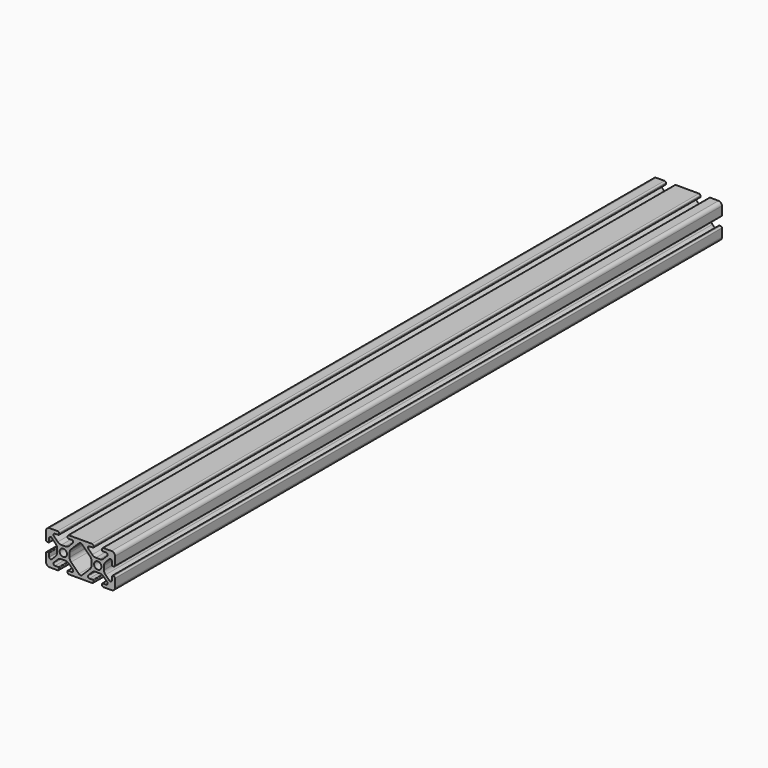
from build123d import *

# Parameters (mm, degrees)
F0_R     = 2.1463
F1_DEPTH = 440


with BuildPart() as f1:
    # F0 (on Front) → F1 (new body)
    with BuildSketch(Plane.XZ):
        with BuildLine():
            Line((-9.75241, 4.759444), (-12.019248, 4.759444))
            ThreePointArc((-12.019248, 4.759444), (-13.166227, 4.987592), (-14.138589, 5.637303))
            Line((-14.138589, 5.637303), (-16.393426, 7.892141))
            ThreePointArc((-16.393426, 7.892141), (-16.575125, 8.805603), (-15.800729, 9.323038))
            Line((-15.800729, 9.323038), (-13.692529, 9.323038))
            ThreePointArc((-13.692529, 9.323038), (-13.477003, 9.412312), (-13.387729, 9.627838))
            Line((-13.387729, 9.627838), (-13.387729, 10.339038))
            ThreePointArc((-13.387729, 10.339038), (-13.618353, 10.895814), (-14.175129, 11.126438))
            Line((-14.175129, 11.126438), (-18.874129, 11.126438))
            ThreePointArc((-18.874129, 11.126438), (-20.29301, 10.538718), (-20.880729, 9.119838))
            Line((-20.880729, 9.119838), (-20.880729, 4.420838))
            ThreePointArc((-20.880729, 4.420838), (-20.650105, 3.864062), (-20.093329, 3.633438))
            Line((-20.093329, 3.633438), (-19.382129, 3.633438))
            ThreePointArc((-19.382129, 3.633438), (-19.166603, 3.722712), (-19.077329, 3.938238))
            Line((-19.077329, 3.938238), (-19.077329, 6.046438))
            ThreePointArc((-19.077329, 6.046438), (-18.559895, 6.820834), (-17.646432, 6.639135))
            Line((-17.646432, 6.639135), (-15.391595, 4.384297))
            ThreePointArc((-15.391595, 4.384297), (-14.741884, 3.411936), (-14.513736, 2.264957))
            Line((-14.513736, 2.264957), (-14.513736, -0.001881))
            ThreePointArc((-14.513736, -0.001881), (-14.741884, -1.14886), (-15.391595, -2.121222))
            Line((-15.391595, -2.121222), (-17.646432, -4.376059))
            ThreePointArc((-17.646432, -4.376059), (-18.559895, -4.557758), (-19.077329, -3.783362))
            Line((-19.077329, -3.783362), (-19.077329, -1.675162))
            ThreePointArc((-19.077329, -1.675162), (-19.166603, -1.459636), (-19.382129, -1.370362))
            Line((-19.382129, -1.370362), (-20.093329, -1.370362))
            ThreePointArc((-20.093329, -1.370362), (-20.650105, -1.600986), (-20.880729, -2.157762))
            Line((-20.880729, -2.157762), (-20.880729, -6.856762))
            ThreePointArc((-20.880729, -6.856762), (-20.29301, -8.275643), (-18.874129, -8.863362))
            Line((-18.874129, -8.863362), (-14.175129, -8.863362))
            ThreePointArc((-14.175129, -8.863362), (-13.618353, -8.632738), (-13.387729, -8.075962))
            Line((-13.387729, -8.075962), (-13.387729, -7.364762))
            ThreePointArc((-13.387729, -7.364762), (-13.477003, -7.149236), (-13.692529, -7.059962))
            Line((-13.692529, -7.059962), (-15.800729, -7.059962))
            ThreePointArc((-15.800729, -7.059962), (-16.575125, -6.542528), (-16.393426, -5.629065))
            Line((-16.393426, -5.629065), (-14.138589, -3.374228))
            ThreePointArc((-14.138589, -3.374228), (-13.166227, -2.724517), (-12.019248, -2.496368))
            Line((-12.019248, -2.496368), (-9.75241, -2.496368))
            ThreePointArc((-9.75241, -2.496368), (-8.605431, -2.724517), (-7.63307, -3.374228))
            Line((-7.63307, -3.374228), (-5.378232, -5.629065))
            ThreePointArc((-5.378232, -5.629065), (-5.196534, -6.542528), (-5.970929, -7.059962))
            Line((-5.970929, -7.059962), (-8.079129, -7.059962))
            ThreePointArc((-8.079129, -7.059962), (-8.294656, -7.149236), (-8.383929, -7.364762))
            Line((-8.383929, -7.364762), (-8.383929, -8.075962))
            ThreePointArc((-8.383929, -8.075962), (-8.153305, -8.632738), (-7.596529, -8.863362))
            Line((-7.596529, -8.863362), (5.814671, -8.863362))
            ThreePointArc((5.814671, -8.863362), (6.371447, -8.632738), (6.602071, -8.075962))
            Line((6.602071, -8.075962), (6.602071, -7.364762))
            ThreePointArc((6.602071, -7.364762), (6.512797, -7.149236), (6.297271, -7.059962))
            Line((6.297271, -7.059962), (4.189071, -7.059962))
            ThreePointArc((4.189071, -7.059962), (3.414675, -6.542528), (3.596374, -5.629065))
            Line((3.596374, -5.629065), (5.851211, -3.374228))
            ThreePointArc((5.851211, -3.374228), (6.823573, -2.724517), (7.970552, -2.496368))
            Line((7.970552, -2.496368), (10.23739, -2.496368))
            ThreePointArc((10.23739, -2.496368), (11.384369, -2.724517), (12.35673, -3.374228))
            Line((12.35673, -3.374228), (14.611568, -5.629065))
            ThreePointArc((14.611568, -5.629065), (14.793266, -6.542528), (14.018871, -7.059962))
            Line((14.018871, -7.059962), (11.910671, -7.059962))
            ThreePointArc((11.910671, -7.059962), (11.695144, -7.149236), (11.605871, -7.364762))
            Line((11.605871, -7.364762), (11.605871, -8.075962))
            ThreePointArc((11.605871, -8.075962), (11.836495, -8.632738), (12.393271, -8.863362))
            Line((12.393271, -8.863362), (17.092271, -8.863362))
            ThreePointArc((17.092271, -8.863362), (18.511151, -8.275643), (19.098871, -6.856762))
            Line((19.098871, -6.856762), (19.098871, -2.157762))
            ThreePointArc((19.098871, -2.157762), (18.868247, -1.600986), (18.311471, -1.370362))
            Line((18.311471, -1.370362), (17.600271, -1.370362))
            ThreePointArc((17.600271, -1.370362), (17.384744, -1.459636), (17.295471, -1.675162))
            Line((17.295471, -1.675162), (17.295471, -3.783362))
            ThreePointArc((17.295471, -3.783362), (16.778036, -4.557758), (15.864574, -4.376059))
            Line((15.864574, -4.376059), (13.609736, -2.121222))
            ThreePointArc((13.609736, -2.121222), (12.960025, -1.14886), (12.731877, -0.001881))
            Line((12.731877, -0.001881), (12.731877, 2.264957))
            ThreePointArc((12.731877, 2.264957), (12.960025, 3.411936), (13.609736, 4.384297))
            Line((13.609736, 4.384297), (15.864574, 6.639135))
            ThreePointArc((15.864574, 6.639135), (16.778036, 6.820834), (17.295471, 6.046438))
            Line((17.295471, 6.046438), (17.295471, 3.938238))
            ThreePointArc((17.295471, 3.938238), (17.384744, 3.722712), (17.600271, 3.633438))
            Line((17.600271, 3.633438), (18.311471, 3.633438))
            ThreePointArc((18.311471, 3.633438), (18.868247, 3.864062), (19.098871, 4.420838))
            Line((19.098871, 4.420838), (19.098871, 9.119838))
            ThreePointArc((19.098871, 9.119838), (18.511151, 10.538718), (17.092271, 11.126438))
            Line((17.092271, 11.126438), (12.393271, 11.126438))
            ThreePointArc((12.393271, 11.126438), (11.836495, 10.895814), (11.605871, 10.339038))
            Line((11.605871, 10.339038), (11.605871, 9.627838))
            ThreePointArc((11.605871, 9.627838), (11.695144, 9.412312), (11.910671, 9.323038))
            Line((11.910671, 9.323038), (14.018871, 9.323038))
            ThreePointArc((14.018871, 9.323038), (14.793266, 8.805603), (14.611568, 7.892141))
            Line((14.611568, 7.892141), (12.35673, 5.637303))
            ThreePointArc((12.35673, 5.637303), (11.384369, 4.987592), (10.23739, 4.759444))
            Line((10.23739, 4.759444), (7.970552, 4.759444))
            ThreePointArc((7.970552, 4.759444), (6.823573, 4.987592), (5.851211, 5.637303))
            Line((5.851211, 5.637303), (3.596374, 7.892141))
            ThreePointArc((3.596374, 7.892141), (3.414675, 8.805603), (4.189071, 9.323038))
            Line((4.189071, 9.323038), (6.297271, 9.323038))
            ThreePointArc((6.297271, 9.323038), (6.512797, 9.412312), (6.602071, 9.627838))
            Line((6.602071, 9.627838), (6.602071, 10.339038))
            ThreePointArc((6.602071, 10.339038), (6.371447, 10.895814), (5.814671, 11.126438))
            Line((5.814671, 11.126438), (-7.596529, 11.126438))
            ThreePointArc((-7.596529, 11.126438), (-8.153305, 10.895814), (-8.383929, 10.339038))
            Line((-8.383929, 10.339038), (-8.383929, 9.627838))
            ThreePointArc((-8.383929, 9.627838), (-8.294656, 9.412312), (-8.079129, 9.323038))
            Line((-8.079129, 9.323038), (-5.970929, 9.323038))
            ThreePointArc((-5.970929, 9.323038), (-5.196534, 8.805603), (-5.378232, 7.892141))
            Line((-5.378232, 7.892141), (-7.63307, 5.637303))
            ThreePointArc((-7.63307, 5.637303), (-8.605431, 4.987592), (-9.75241, 4.759444))
        make_face()
        with Locations((-10.885829, 1.131538)):
            Circle(F0_R, mode=Mode.SUBTRACT)
        with BuildLine():
            Line((-7.257923, -0.001881), (-7.257923, 2.264957))
            ThreePointArc((-7.257923, 2.264957), (-7.029775, 3.411936), (-6.380064, 4.384297))
            Line((-6.380064, 4.384297), (-1.83051, 8.933851))
            ThreePointArc((-1.83051, 8.933851), (-0.890929, 9.323038), (0.048652, 8.933851))
            Line((0.048652, 8.933851), (4.598205, 4.384297))
            ThreePointArc((4.598205, 4.384297), (5.247916, 3.411936), (5.476064, 2.264957))
            Line((5.476064, 2.264957), (5.476064, -0.001881))
            ThreePointArc((5.476064, -0.001881), (5.247916, -1.14886), (4.598205, -2.121222))
            Line((4.598205, -2.121222), (0.048652, -6.670775))
            ThreePointArc((0.048652, -6.670775), (-0.890929, -7.059962), (-1.83051, -6.670775))
            Line((-1.83051, -6.670775), (-6.380064, -2.121222))
            ThreePointArc((-6.380064, -2.121222), (-7.029775, -1.14886), (-7.257923, -0.001881))
        make_face(mode=Mode.SUBTRACT)
        with Locations((9.103971, 1.131538)):
            Circle(F0_R, mode=Mode.SUBTRACT)
    extrude(amount=F1_DEPTH)


solid = f1.part
